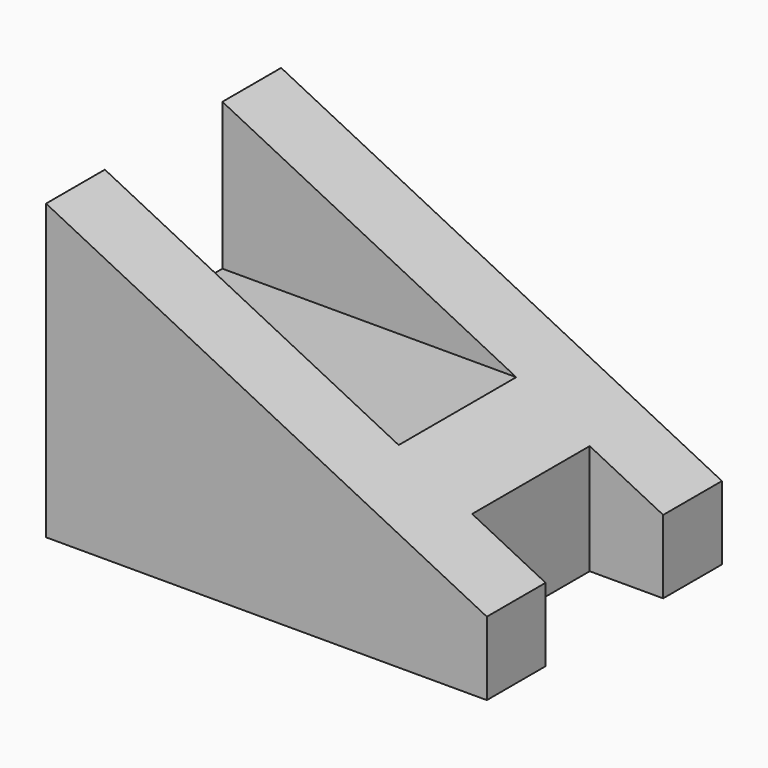
from build123d import *

# Parameters (mm, degrees)
F1_DEPTH = 5
F2_W     = 20
F2_H     = 10
F3_DEPTH = 10
F5_DEPTH = 5
F7_DEPTH = 10


with BuildPart() as f1:
    # F0 (on Front) → F1 (new body)
    with BuildSketch(Plane.XZ):
        Polygon((0, 20), (0, 0), (30, 0), (30, 5), align=None)
    extrude(amount=F1_DEPTH)

    # F2 (on Top) → F3 (join)
    with BuildSketch(Plane.XY):
        with Locations((10, 5)):
            Rectangle(F2_W, F2_H)
    extrude(amount=F3_DEPTH)

    # F4 (on face) → F5 (join)
    with BuildSketch(Plane(origin=(0, 10, 0), x_dir=(-1, 0, 0), z_dir=(0, 1, 0))):
        Polygon((-30, 0), (0, 0), (0, 20), (-30, 5), align=None)
    extrude(amount=F5_DEPTH)

    # F6 (on face) → F7 (join, through all)
    with BuildSketch(Plane(origin=(0, 0, 0), x_dir=(-1, 0, 0), z_dir=(0, 1, 0))):
        Polygon((-20, 10), (-25, 7.5), (-25, 0), (-20, 0), align=None)
    extrude(amount=F7_DEPTH)


solid = f1.part
